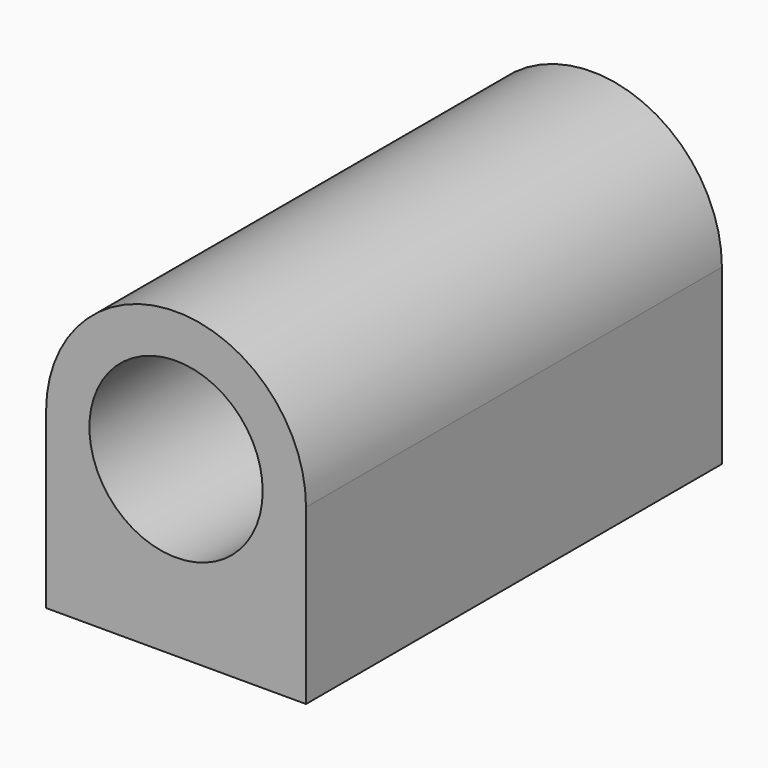
from build123d import *

# Parameters (mm, degrees)
F0_R          = 0.5
F1_DEPTH      = 1.5
F1_DEPTH_BACK = 1.5
F2_R          = 0.065
F3_DEPTH      = 0.5


with BuildPart() as f1:
    # F0 (on Front) → F1 (new body, two sides)
    with BuildSketch(Plane.XZ) as f1_sk:
        with BuildLine():
            Line((-0.75, 0), (-0.75, -1))
            Line((-0.75, -1), (0.75, -1))
            Line((0.75, -1), (0.75, 0))
            ThreePointArc((0.75, 0), (0, 0.75), (-0.75, 0))
        make_face()
        Circle(F0_R, mode=Mode.SUBTRACT)
    extrude(amount=F1_DEPTH)
    extrude(f1_sk.sketch, amount=-F1_DEPTH_BACK)

    # F2 (on face) → F3 (cut)
    with BuildSketch(Plane(origin=(0, 0, -1), x_dir=(1, 0, 0), z_dir=(0, 0, -1))):
        with Locations((-0.5, -1.25)):
            Circle(F2_R)
        with Locations((0.5, -1.25)):
            Circle(F2_R)
        with Locations((0.5, 1.25)):
            Circle(F2_R)
        with Locations((-0.5, 1.25)):
            Circle(F2_R)
    extrude(amount=-F3_DEPTH, mode=Mode.SUBTRACT)


solid = f1.part
